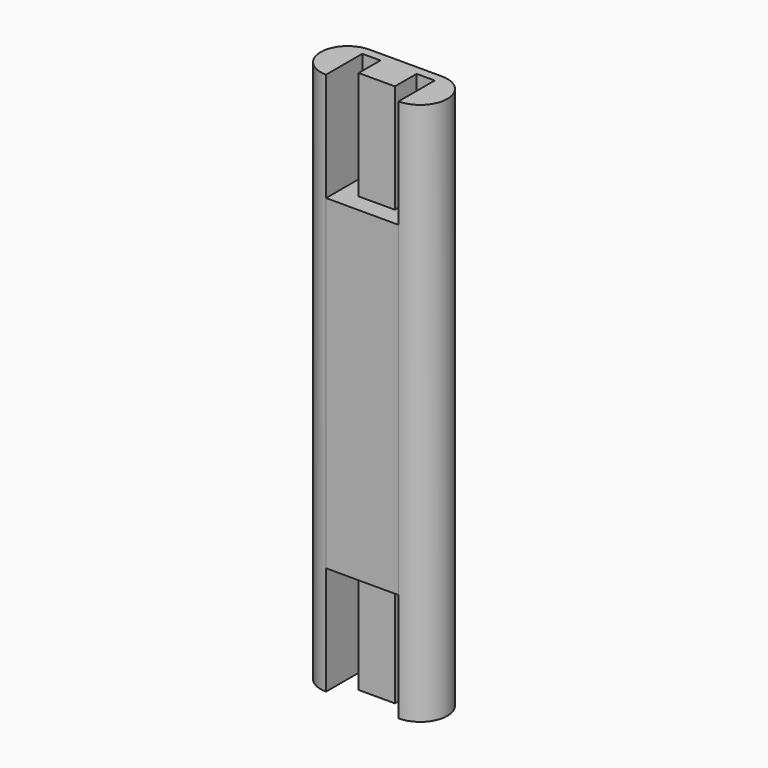
from build123d import *

# Parameters (mm, degrees)
F1_DEPTH = 300
F3_DEPTH = 60
F5_DEPTH = 60


with BuildPart() as f1:
    # F0 (on Top) → F1 (new body)
    with BuildSketch(Plane.XY):
        with BuildLine():
            Line((20, 15), (0, 15))
            Line((0, 15), (-20, 15))
            ThreePointArc((-20, 15), (-35, 0), (-20, -15))
            Line((-20, -15), (0, -15))
            Line((0, -15), (20, -15))
            ThreePointArc((20, -15), (35, 0), (20, 15))
        make_face()
    extrude(amount=F1_DEPTH)

    # F2 (on face) → F3 (cut)
    with BuildSketch(Plane.XY.offset(300)):
        Polygon((-10, 10), (-20, 10), (-20, -18.429138), (0, -18.429138), (20, -18.429138), (20, 10), (10, 10), (10, -5), (0, -5), (-10, -5), align=None)
    extrude(amount=-F3_DEPTH, mode=Mode.SUBTRACT)

    # F4 (on face) → F5 (cut)
    with BuildSketch(Plane(origin=(0, 0, 0), x_dir=(1, 0, 0), z_dir=(0, 0, -1))):
        Polygon((10, -10), (20, -10), (20, 20.498224), (0, 20.498224), (-20, 20.498224), (-20, -10), (-10, -10), (-10, 5), (0, 5), (10, 5), align=None)
    extrude(amount=-F5_DEPTH, mode=Mode.SUBTRACT)


solid = f1.part
